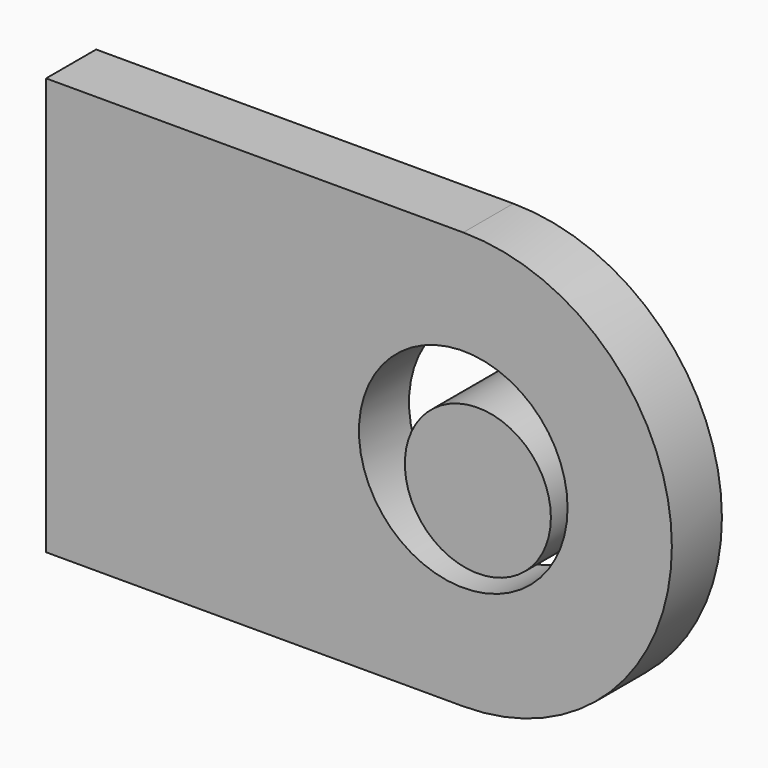
from build123d import *

# Parameters (mm, degrees)
F0_R          = 50
F1_DEPTH      = 30
F0_R_2        = 35
F2_DEPTH      = 40
F2_DEPTH_BACK = 10


with BuildPart() as f1:
    # F0 (on Front) → F1 (new body)
    with BuildSketch(Plane.XZ):
        with BuildLine():
            Line((0, 200), (0, 0))
            Line((0, 0), (200, 0))
            ThreePointArc((200, 0), (300, 100), (200, 200))
            Line((200, 200), (0, 200))
        make_face()
        with Locations((200, 100)):
            Circle(F0_R, mode=Mode.SUBTRACT)
    extrude(amount=F1_DEPTH)


with BuildPart() as f2:
    # F0 (on Front) → F2 (new body, two sides)
    with BuildSketch(Plane.XZ) as f2_sk:
        with Locations((215, 100)):
            Circle(F0_R_2)
    extrude(amount=F2_DEPTH)
    extrude(f2_sk.sketch, amount=-F2_DEPTH_BACK)


solid = Compound([f1.part, f2.part])
